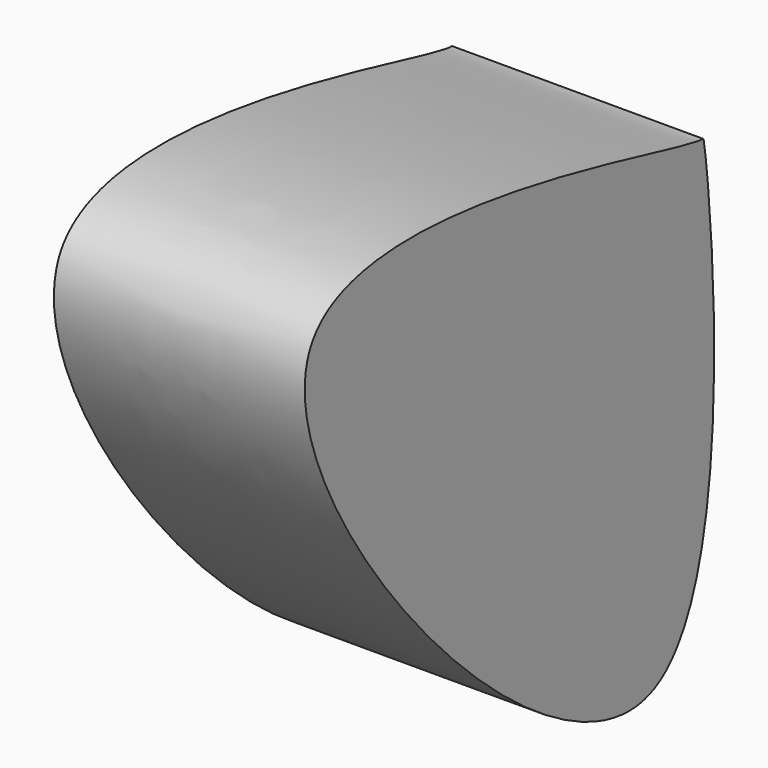
from build123d import *

# Parameters (mm, degrees)
F1_DEPTH = 25.4


with BuildPart() as f1:
    # F0 (on Right) → F1 (new body)
    with BuildSketch(Plane.YZ):
        with BuildLine():
            add(Edge.make_bspline(
                [(-52.5944828987, 48.6634448171), (-46.4366181431, 59.1772049637), (-3.2660106409, 45.7234085517), (-2.863672261, 47.8307216874), (7.1430892966, -41.0721081626), (-59.6698288072, 36.5832038913), (-52.5944828987, 48.6634448171)],
                knots=[0, 0, 0, 0, 0.3088070211, 0.3431176221, 0.6451827736, 1, 1, 1, 1], degree=3))
        make_face()
    extrude(amount=F1_DEPTH)


solid = f1.part
